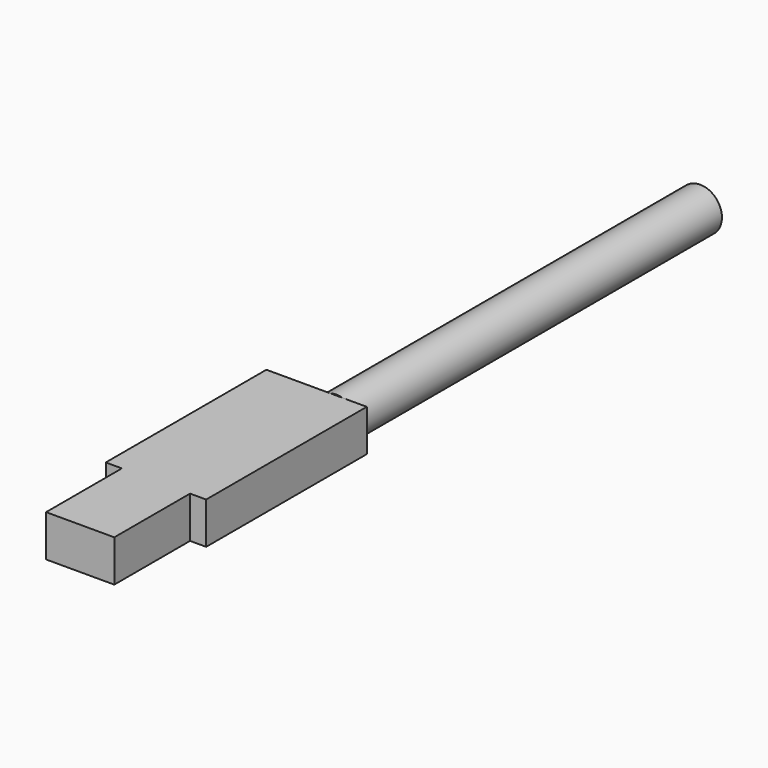
from build123d import *

# Parameters (mm, degrees)
F0_W     = 26.5
F0_H     = 53
F1_DEPTH = 11
F2_R     = 5.75
F3_DEPTH = 120
F4_W     = 18
F4_H     = 11
F5_DEPTH = 25


with BuildPart() as f1:
    # F0 (on Top) → F1 (new body)
    with BuildSketch(Plane.XY):
        Rectangle(F0_W, F0_H)
    extrude(amount=F1_DEPTH)

    # F2 (on face) → F3 (join)
    with BuildSketch(Plane(origin=(0, 26.5, 0), x_dir=(-1, 0, 0), z_dir=(0, 1, 0))):
        with Locations((-5.25, 5.5)):
            Circle(F2_R)
    extrude(amount=F3_DEPTH)

    # F4 (on face) → F5 (join)
    with BuildSketch(Plane.XZ.offset(26.5)):
        with Locations((0, 5.5)):
            Rectangle(F4_W, F4_H)
    extrude(amount=F5_DEPTH)


solid = f1.part
